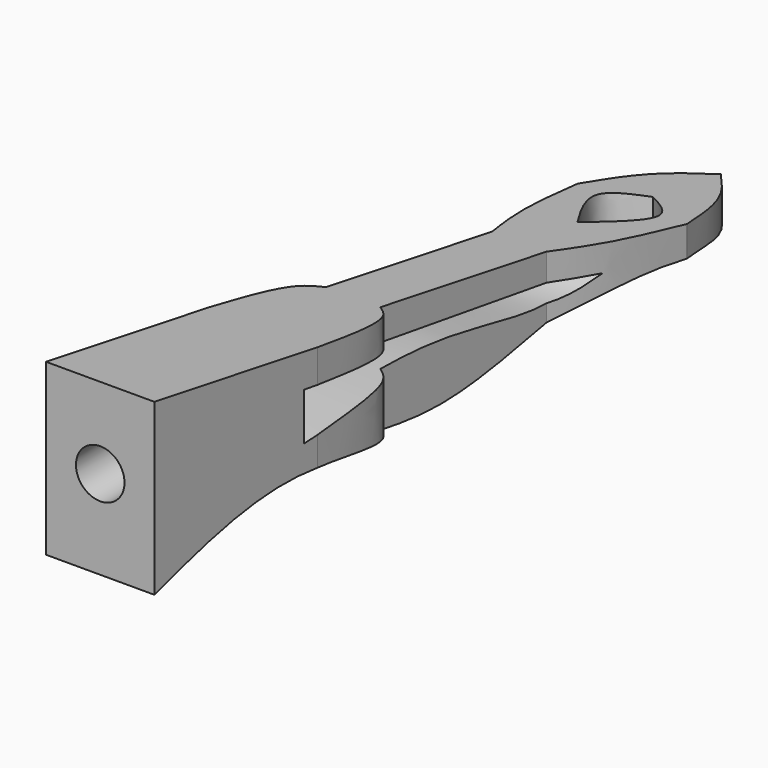
from build123d import *

# Parameters (mm, degrees)
F1_DEPTH = 21.43125
F2_R     = 9.525
F3_DEPTH = 50.8
F7_DEPTH = 42.8635
F9_DEPTH = 66.6957062098


with BuildPart() as f1:
    # F0 (on Right) → F1 (new body, symmetric)
    with BuildSketch(Plane.YZ):
        Polygon((-152.4, 69.85), (-152.4, 0), (152.4, 0), (152.4, 19.05), align=None)
    extrude(amount=F1_DEPTH, both=True)

    # F2 (on face) → F3 (cut)
    with BuildSketch(Plane.XZ.offset(152.4)):
        with Locations((0, 34.925)):
            Circle(F2_R)
    extrude(amount=-F3_DEPTH, mode=Mode.SUBTRACT)

    # F6 (on face) → F7 (intersect, through all)
    with BuildSketch(Plane.YZ.offset(21.43125)):
        with BuildLine():
            Line((-152.8941392899, 66.7791590095), (-152.4501293898, 0))
            add(Edge.make_bspline(
                [(-152.4501293898, 0), (-129.8861237272, 6.7829696829), (-82.6535182356, 20.9815714687), (-0.1159852164, -10.5587172685), (83.6987550578, 19.3085027704), (130.2755860622, 6.2105840098), (152.3607224226, 0)],
                knots=[0, 0, 0, 0, 0.2390665989, 0.5004314624, 0.7631217273, 1, 1, 1, 1], degree=3))
            Line((152.3607224226, 0), (152.3607224226, 14.608326368))
            Line((152.3607224226, 14.608326368), (-152.8941392899, 66.7791590095))
        make_face()
        with BuildLine():
            Line((-78.9669603109, 22.3784502596), (-78.9669603109, 41.0267449915))
            Line((-78.9669603109, 41.0267449915), (73.5494717956, 17.7163779736))
            add(Edge.make_bspline(
                [(-78.9669603109, 22.3784502596), (-51.8184081005, 23.9658180926), (-2.4850250838, 26.8503264335), (50.5890508522, 10.2885922276), (67.0847310442, 15.6250091209), (73.5494717956, 17.7163779736)],
                knots=[0, 0, 0, 0, 0.4266556329, 0.7753034339, 1, 1, 1, 1], degree=3))
        make_face(mode=Mode.SUBTRACT)
    extrude(amount=-F7_DEPTH, mode=Mode.INTERSECT)

    # F8 (on Top) → F9 (intersect, through all)
    with BuildSketch(Plane.XY):
        with BuildLine():
            Line((-21.2506037205, -152.7059078217), (21.2506037205, -152.7059078217))
            Line((21.2506037205, -152.7059078217), (21.2506037205, -72.2659528255))
            add(Edge.make_bspline(
                [(21.2506037205, -72.2659528255), (20.6304582005, -57.3464835534), (19.7015643659, -34.9991431714), (12.9203554118, -29.9582157209), (10.6663983315, -28.2826982439)],
                knots=[0, 0, 0, 0, 0.6676172205, 1, 1, 1, 1], degree=3))
            Line((10.6663983315, -28.2826982439), (10.6663983315, 53.2299056649))
            add(Edge.make_bspline(
                [(10.6663983315, 53.2299056649), (12.9879059363, 60.6020335687), (18.0114056823, 76.5545476056), (20.2403345665, 97.4184854384), (21.4392095804, 108.6405813694)],
                knots=[0, 0, 0, 0, 0.4621295356, 1, 1, 1, 1], degree=3))
            add(Edge.make_bspline(
                [(21.4392095804, 108.6405813694), (19.1115870027, 117.9605731515), (14.7264225764, 135.5191313158), (4.7030284227, 146.8056059721), (0, 152.1012783051)],
                knots=[0, 0, 0, 0, 0.5307948235, 1, 1, 1, 1], degree=3))
            add(Edge.make_bspline(
                [(-21.4392095804, 108.6405813694), (-19.1115870027, 117.9605731515), (-14.7264225764, 135.5191313158), (-4.7030284227, 146.8056059721), (0, 152.1012783051)],
                knots=[0, 0, 0, 0, 0.5307948235, 1, 1, 1, 1], degree=3))
            add(Edge.make_bspline(
                [(-10.6663983315, 53.2299056649), (-12.9879059363, 60.6020335687), (-18.0114056823, 76.5545476056), (-20.2403345665, 97.4184854384), (-21.4392095804, 108.6405813694)],
                knots=[0, 0, 0, 0, 0.4621295356, 1, 1, 1, 1], degree=3))
            Line((-10.6663983315, 53.2299056649), (-10.6663983315, -28.2826982439))
            add(Edge.make_bspline(
                [(-21.2506037205, -72.2659528255), (-20.6304582005, -57.3464835534), (-19.7015643659, -34.9991431714), (-12.9203554118, -29.9582157209), (-10.6663983315, -28.2826982439)],
                knots=[0, 0, 0, 0, 0.6676172205, 1, 1, 1, 1], degree=3))
            Line((-21.2506037205, -72.2659528255), (-21.2506037205, -152.7059078217))
        make_face()
        with BuildLine():
            add(Edge.make_bspline(
                [(0, 81.7373692989), (6.3576008765, 91.2478997897), (17.5548056396, 107.9981424329), (5.2977065112, 115.4985040196), (0, 118.7402755022)],
                knots=[0, 0, 0, 0, 0.5677846401, 1, 1, 1, 1], degree=3))
            add(Edge.make_bspline(
                [(0, 81.7373692989), (-6.3576008765, 91.2478997897), (-17.5548056396, 107.9981424329), (-5.2977065112, 115.4985040196), (0, 118.7402755022)],
                knots=[0, 0, 0, 0, 0.5677846401, 1, 1, 1, 1], degree=3))
        make_face(mode=Mode.SUBTRACT)
    extrude(amount=F9_DEPTH, mode=Mode.INTERSECT)


solid = f1.part
